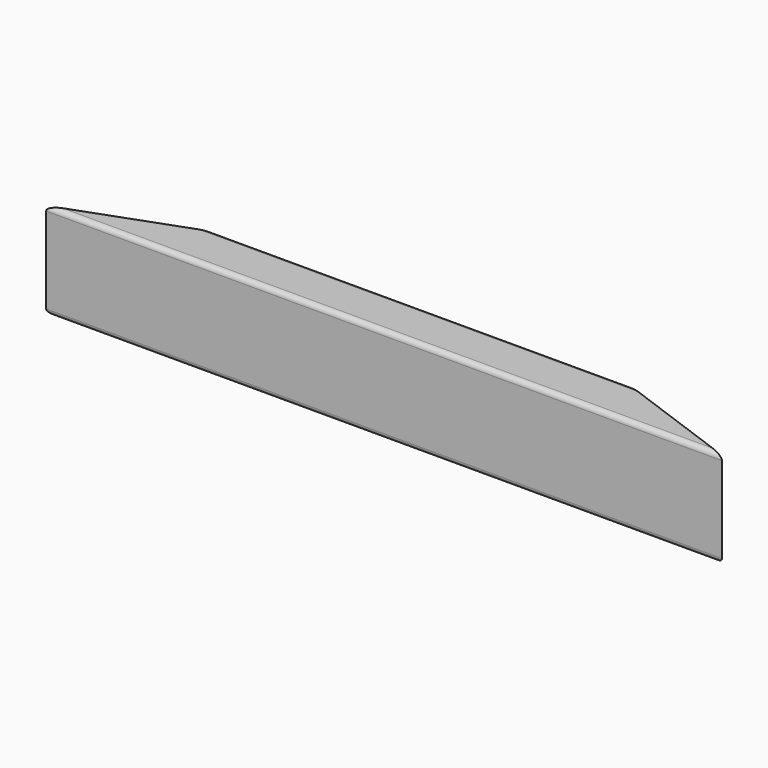
from build123d import *

# Parameters (mm, degrees)
F0_W     = 358.775
F0_H     = 50.8
F1_DEPTH = 12.7
F2_T     = -2.54
F4_DEPTH = 50.801
F5_R     = 2.54
F6_R     = 1.27


with BuildPart() as f1:
    # F0 (on Front) → F1 (new body, symmetric)
    with BuildSketch(Plane.XZ):
        Rectangle(F0_W, F0_H)
    extrude(amount=F1_DEPTH, both=True)

    # F2
    f2_openings = [f1.faces().sort_by_distance(p)[0] for p in [
        (-179.3875, 0, 0),
        (179.3875, 0, 0),
    ]]
    offset(amount=F2_T, openings=f2_openings)

    # F3 (on face) → F4 (cut, through all)
    with BuildSketch(Plane.XY.offset(25.4)):
        Polygon((-179.3875, 12.7), (-179.3875, -12.7), (-109.6015735459, 12.7), align=None)
        Polygon((109.6015735459, 12.7), (179.3875, -12.7), (179.3875, 12.7), align=None)
    extrude(amount=-F4_DEPTH, mode=Mode.SUBTRACT)

    # F5
    f5_edges = [f1.edges().sort_by_distance(p)[0] for p in [
        (0, -12.7, 25.4),
        (0, 12.7, 25.4),
        (0, 12.7, -25.4),
        (0, -12.7, -25.4),
    ]]
    fillet(f5_edges, radius=F5_R)

    # F6
    f6_edges = [f1.edges().sort_by_distance(p)[0] for p in [
        (0, -10.16, -22.86),
        (0, -10.16, 22.86),
        (0, 10.16, 22.86),
        (0, 10.16, -22.86),
    ]]
    fillet(f6_edges, radius=F6_R)


solid = f1.part
